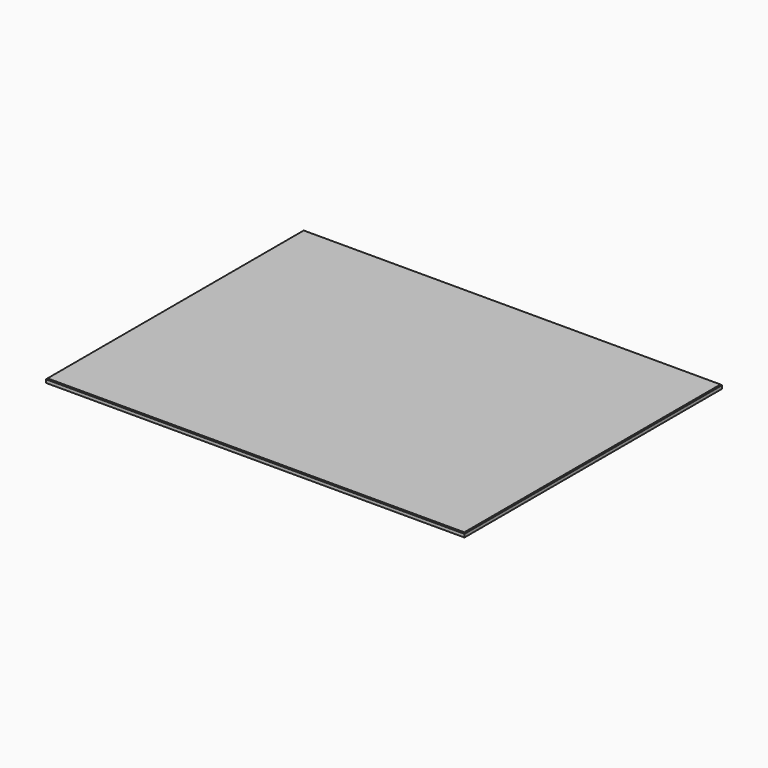
from build123d import *

# Parameters (mm, degrees)
F0_W     = 660.4
F0_H     = 508
F1_DEPTH = 6.35
F2_SIZE  = 1.27


with BuildPart() as f1:
    # F0 (on Top) → F1 (new body)
    with BuildSketch(Plane.XY):
        Rectangle(F0_W, F0_H)
    extrude(amount=F1_DEPTH)

    # F2
    f2_edges = [f1.edges().sort_by_distance(p)[0] for p in [
        (330.2, 0, 6.35),
        (0, 254, 6.35),
        (-330.2, 0, 6.35),
        (0, -254, 6.35),
    ]]
    chamfer(f2_edges, length=F2_SIZE)


solid = f1.part
